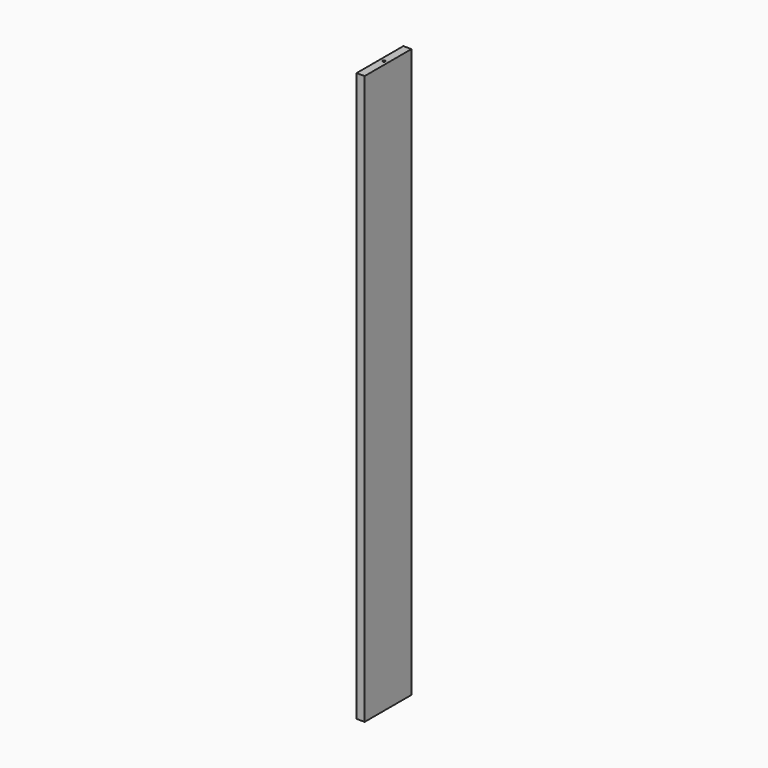
from build123d import *

# Parameters (mm, degrees)
F0_W     = 130
F0_H     = 1264
F1_DEPTH = 18
F2_R     = 3
F3_DEPTH = 5


with BuildPart() as f1:
    # F0 (on Right) → F1 (new body)
    with BuildSketch(Plane.YZ):
        Rectangle(F0_W, F0_H)
    extrude(amount=F1_DEPTH)

    # F2 (on face) → F3 (cut)
    with BuildSketch(Plane.XY.offset(632)):
        with Locations((9, 0)):
            Circle(F2_R)
    extrude(amount=-F3_DEPTH, mode=Mode.SUBTRACT)


solid = f1.part
